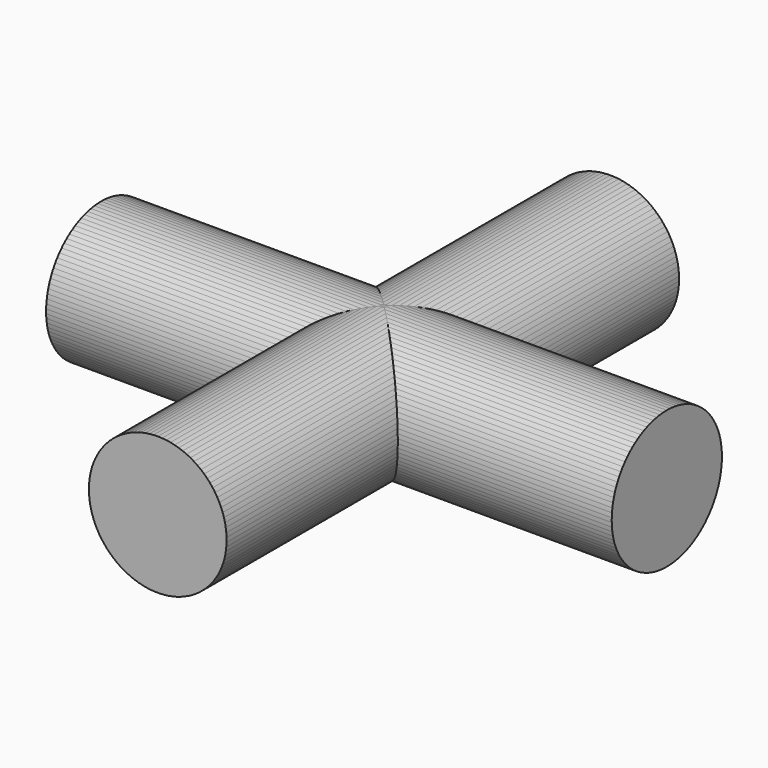
from build123d import *

# Parameters (mm, degrees)
F0_R     = 30.934953
F1_DEPTH = 127
F3_COUNT = 4


with BuildPart() as f1:
    # F0 (on Front) → F1 (new body, symmetric)
    with BuildSketch(Plane.XZ):
        Circle(F0_R)
    extrude(amount=F1_DEPTH, both=True)


with BuildPart() as f3_1:
    # F3: instance of F1
    add(f1.part.rotate(Axis((0, 0, 25.112987), (0, 0, 1)), 1 * 360 / F3_COUNT))


with BuildPart() as f3_2:
    # F3: instance of F1
    add(f1.part.rotate(Axis((0, 0, 25.112987), (0, 0, 1)), 2 * 360 / F3_COUNT))


with BuildPart() as f3_3:
    # F3: instance of F1
    add(f1.part.rotate(Axis((0, 0, 25.112987), (0, 0, 1)), 3 * 360 / F3_COUNT))


solid = Compound([f1.part, f3_1.part, f3_2.part, f3_3.part])
